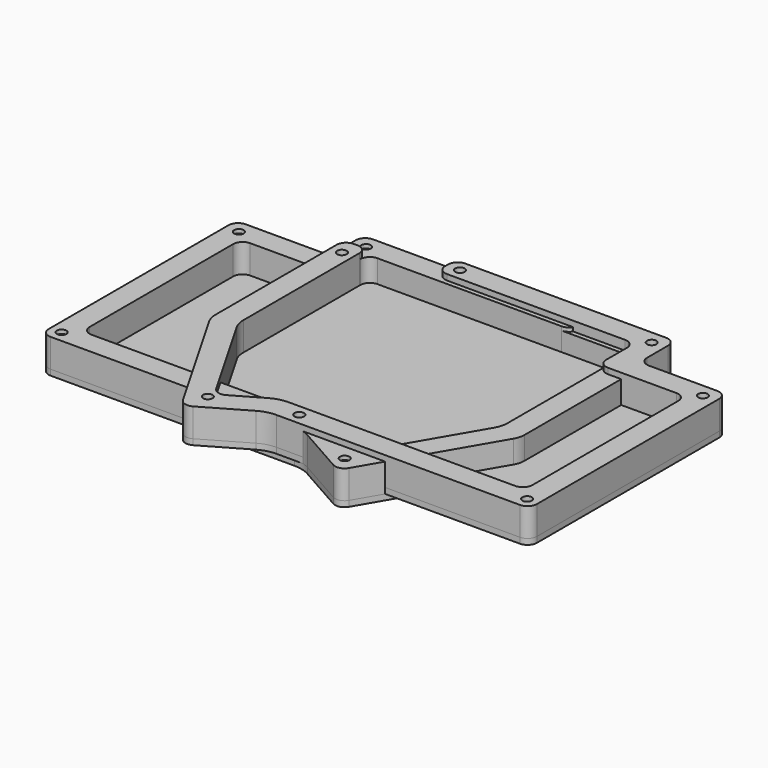
from build123d import *

# Parameters (mm, degrees)
EXTRUDE_DEPTH       = 13
SKETCH001_R         = 2.5
EXTRUDE001_DEPTH    = 3
SKETCH002_R         = 2.5
EXTRUDE002_DEPTH    = 15
MIRROREDSKETCH_R    = 2.5
EXTRUDE004_DEPTH    = 3
MIRROREDSKETCH001_R = 2.5
EXTRUDE005_DEPTH    = 15


with BuildPart() as extrude_body:
    # Sketch → Extrude (new body)
    with BuildSketch(Plane.XY):
        with BuildLine():
            Line((-130.49, 59.21), (-130.49, -59.21))
            ThreePointArc((-130.49, -59.21), (-129.025534, -62.745534), (-125.49, -64.21))
            Line((-125.49, -64.21), (2.885908, -64.21))
            ThreePointArc((11.622751, -66.512088), (7.403431, -64.795179), (2.885908, -64.21))
            Line((11.622751, -66.512088), (36.536967, -80.621035))
            ThreePointArc((36.536967, -80.621035), (40.306595, -81.096728), (43.3222, -78.785341))
            Line((43.3222, -78.785341), (79.515572, -16.598901))
            ThreePointArc((79.515572, -16.598901), (80.831144, -13.4462), (81.28, -10.059641))
            Line((81.28, -10.059641), (81.28, 81.44))
            ThreePointArc((81.28, 81.44), (79.815534, 84.975534), (76.28, 86.44))
            Line((76.28, 86.44), (-76.28, 86.44))
            ThreePointArc((-76.28, 86.44), (-79.815534, 84.975534), (-81.28, 81.44))
            Line((-81.28, 81.44), (-81.28, 69.21))
            ThreePointArc((-86.28, 64.21), (-82.744466, 65.674466), (-81.28, 69.21))
            Line((-86.28, 64.21), (-125.49, 64.21))
            ThreePointArc((-125.49, 64.21), (-129.025534, 62.745534), (-130.49, 59.21))
        make_face()
        with BuildLine():
            Line((69.28, 69.44), (69.28, -6.821793))
            ThreePointArc((67.515572, -13.361052), (68.831144, -10.208352), (69.28, -6.821793))
            Line((67.515572, -13.361052), (38.916228, -62.499646))
            ThreePointArc((32.130995, -64.335339), (35.900623, -64.811032), (38.916228, -62.499646))
            Line((14.784655, -54.512088), (32.130995, -64.335339))
            ThreePointArc((14.784655, -54.512088), (10.565334, -52.795179), (6.047812, -52.21))
            Line((-113.49, -52.21), (6.047812, -52.21))
            ThreePointArc((-118.49, -47.21), (-117.025534, -50.745534), (-113.49, -52.21))
            Line((-118.49, 47.21), (-118.49, -47.21))
            ThreePointArc((-113.49, 52.21), (-117.025534, 50.745534), (-118.49, 47.21))
            Line((-113.49, 52.21), (-74.28, 52.21))
            ThreePointArc((-74.28, 52.21), (-70.744466, 53.674466), (-69.28, 57.21))
            Line((-69.28, 69.44), (-69.28, 57.21))
            ThreePointArc((-64.28, 74.44), (-67.815534, 72.975534), (-69.28, 69.44))
            Line((-64.28, 74.44), (64.28, 74.44))
            ThreePointArc((69.28, 69.44), (67.815534, 72.975534), (64.28, 74.44))
        make_face(mode=Mode.SUBTRACT)
    extrude(amount=EXTRUDE_DEPTH)


with BuildPart() as extrude001:
    # Sketch001 → Extrude001 (new body)
    with BuildSketch(Plane.XY):
        with BuildLine():
            Line((-130.49, 59.21), (-130.49, -59.21))
            ThreePointArc((-130.49, -59.21), (-129.025534, -62.745534), (-125.49, -64.21))
            Line((-125.49, -64.21), (2.885908, -64.21))
            ThreePointArc((11.622751, -66.512088), (7.403431, -64.795179), (2.885908, -64.21))
            Line((11.622751, -66.512088), (36.536967, -80.621035))
            ThreePointArc((36.536967, -80.621035), (40.306595, -81.096728), (43.3222, -78.785341))
            Line((43.3222, -78.785341), (79.515572, -16.598901))
            ThreePointArc((79.515572, -16.598901), (80.831144, -13.4462), (81.28, -10.059641))
            Line((81.28, -10.059641), (81.28, 81.44))
            ThreePointArc((81.28, 81.44), (79.815534, 84.975534), (76.28, 86.44))
            Line((76.28, 86.44), (-76.28, 86.44))
            ThreePointArc((-76.28, 86.44), (-79.815534, 84.975534), (-81.28, 81.44))
            Line((-81.28, 81.44), (-81.28, 69.21))
            ThreePointArc((-86.28, 64.21), (-82.744466, 65.674466), (-81.28, 69.21))
            Line((-86.28, 64.21), (-125.49, 64.21))
            ThreePointArc((-125.49, 64.21), (-129.025534, 62.745534), (-130.49, 59.21))
        make_face()
        with Locations((-123.49, 57.21)):
            Circle(SKETCH001_R, mode=Mode.SUBTRACT)
        with Locations((-124.49, -58.21)):
            Circle(SKETCH001_R, mode=Mode.SUBTRACT)
        with Locations((-4.49, -58.21)):
            Circle(SKETCH001_R, mode=Mode.SUBTRACT)
        with Locations((36.585178, -73.175873)):
            Circle(SKETCH001_R, mode=Mode.SUBTRACT)
        with Locations((75.28, 62.44)):
            Circle(SKETCH001_R, mode=Mode.SUBTRACT)
        with Locations((30.711217, 80.44)):
            Circle(SKETCH001_R, mode=Mode.SUBTRACT)
        with Locations((-74.28, 79.44)):
            Circle(SKETCH001_R, mode=Mode.SUBTRACT)
    extrude(amount=-EXTRUDE001_DEPTH)


with BuildPart() as extrude002:
    # Sketch002 → Extrude002 (new body)
    with BuildSketch(Plane.XY):
        with BuildLine():
            Line((-118.49, 47.21), (-118.49, -47.21))
            ThreePointArc((-118.49, -47.21), (-117.025534, -50.745534), (-113.49, -52.21))
            Line((-113.49, -52.21), (6.047812, -52.21))
            ThreePointArc((14.784655, -54.512088), (10.565334, -52.795179), (6.047812, -52.21))
            Line((14.784655, -54.512088), (32.130995, -64.335339))
            ThreePointArc((32.130995, -64.335339), (35.900623, -64.811032), (38.916228, -62.499646))
            Line((67.515573, -13.361052), (38.916228, -62.499646))
            ThreePointArc((67.515573, -13.361052), (68.831378, -10.207486), (69.28, -6.82))
            Line((69.28, 66.44), (69.28, -6.82))
            ThreePointArc((74.28, 71.44), (70.744466, 69.975534), (69.28, 66.44))
            Line((74.28, 71.44), (76.28, 71.44))
            ThreePointArc((81.28, 66.44), (79.815534, 69.975534), (76.28, 71.44))
            Line((81.28, 66.44), (81.28, -10.65587))
            ThreePointArc((79.811267, -16.090847), (80.905274, -13.470547), (81.28, -10.65587))
            Line((43.3222, -78.785341), (79.811267, -16.090847))
            ThreePointArc((36.536967, -80.621035), (40.306595, -81.096728), (43.3222, -78.785341))
            Line((11.622751, -66.512088), (36.536967, -80.621035))
            ThreePointArc((11.622751, -66.512088), (7.403431, -64.795179), (2.885908, -64.21))
            Line((-125.49, -64.21), (2.885908, -64.21))
            ThreePointArc((-130.49, -59.21), (-129.025534, -62.745534), (-125.49, -64.21))
            Line((-130.49, 59.21), (-130.49, -59.21))
            ThreePointArc((-125.49, 64.21), (-129.025534, 62.745534), (-130.49, 59.21))
            Line((-86.28, 64.21), (-125.49, 64.21))
            ThreePointArc((-86.28, 64.21), (-82.744466, 65.674466), (-81.28, 69.21))
            Line((-81.28, 81.44), (-81.28, 69.21))
            ThreePointArc((-76.28, 86.44), (-79.815534, 84.975534), (-81.28, 81.44))
            Line((-76.28, 86.44), (32.71, 86.44))
            ThreePointArc((37.71, 81.44), (36.245534, 84.975534), (32.71, 86.44))
            Line((37.71, 79.44), (37.71, 81.44))
            ThreePointArc((32.71, 74.44), (36.245534, 75.904466), (37.71, 79.44))
            Line((-64.28, 74.44), (32.71, 74.44))
            ThreePointArc((-64.28, 74.44), (-67.815534, 72.975534), (-69.28, 69.44))
            Line((-69.28, 69.44), (-69.28, 57.21))
            ThreePointArc((-74.28, 52.21), (-70.744466, 53.674466), (-69.28, 57.21))
            Line((-113.49, 52.21), (-74.28, 52.21))
            ThreePointArc((-113.49, 52.21), (-117.025534, 50.745534), (-118.49, 47.21))
        make_face()
        with Locations((75.28, 62.44)):
            Circle(SKETCH002_R, mode=Mode.SUBTRACT)
        with Locations((36.585178, -73.175873)):
            Circle(SKETCH002_R, mode=Mode.SUBTRACT)
        with Locations((-124.49, -58.21)):
            Circle(SKETCH002_R, mode=Mode.SUBTRACT)
        with Locations((-4.49, -58.21)):
            Circle(SKETCH002_R, mode=Mode.SUBTRACT)
        with Locations((-123.49, 57.21)):
            Circle(SKETCH002_R, mode=Mode.SUBTRACT)
        with Locations((-74.28, 79.44)):
            Circle(SKETCH002_R, mode=Mode.SUBTRACT)
        with Locations((30.71, 80.44)):
            Circle(SKETCH002_R, mode=Mode.SUBTRACT)
    extrude(amount=EXTRUDE002_DEPTH)


with BuildPart() as extrude004:
    # MirroredSketch → Extrude004 (new body)
    with BuildSketch(Plane.XY):
        with BuildLine():
            Line((127.32, 60.005), (127.32, -60.005))
            ThreePointArc((122.32, -65.005), (125.855534, -63.540534), (127.32, -60.005))
            Line((122.32, -65.005), (-5.910023, -65.005))
            ThreePointArc((-5.910023, -65.005), (-10.498885, -65.609135), (-14.775023, -67.38037))
            Line((-14.775023, -67.38037), (-37.422033, -80.455627))
            ThreePointArc((-44.254779, -78.620958), (-41.21866, -80.95445), (-37.422033, -80.455627))
            Line((-44.254779, -78.620958), (-79.54514, -17.347965))
            ThreePointArc((-81.28, -10.859775), (-80.838798, -14.217838), (-79.54514, -17.347965))
            Line((-81.28, -10.859775), (-81.28, 83.815))
            ThreePointArc((-76.28, 88.815), (-79.815534, 87.350534), (-81.28, 83.815))
            Line((-76.28, 88.815), (76.28, 88.815))
            ThreePointArc((81.28, 83.815), (79.815534, 87.350534), (76.28, 88.815))
            Line((81.28, 83.815), (81.28, 70.005))
            ThreePointArc((81.28, 70.005), (82.744466, 66.469466), (86.28, 65.005))
            Line((86.28, 65.005), (122.32, 65.005))
            ThreePointArc((127.32, 60.005), (125.855534, 63.540534), (122.32, 65.005))
        make_face()
        with Locations((120.32, 58.005)):
            Circle(MIRROREDSKETCH_R, mode=Mode.SUBTRACT)
        with Locations((121.32, -59.005)):
            Circle(MIRROREDSKETCH_R, mode=Mode.SUBTRACT)
        with Locations((1.32, -59.005)):
            Circle(MIRROREDSKETCH_R, mode=Mode.SUBTRACT)
        with Locations((-38.194107, -69.844124)):
            Circle(MIRROREDSKETCH_R, mode=Mode.SUBTRACT)
        with Locations((-75.28, 64.815)):
            Circle(MIRROREDSKETCH_R, mode=Mode.SUBTRACT)
        with Locations((-27.53, 82.815)):
            Circle(MIRROREDSKETCH_R, mode=Mode.SUBTRACT)
        with Locations((74.28, 81.815)):
            Circle(MIRROREDSKETCH_R, mode=Mode.SUBTRACT)
    extrude(amount=EXTRUDE004_DEPTH)


with BuildPart() as extrude005:
    # MirroredSketch001 → Extrude005 (new body)
    with BuildSketch(Plane.XY.offset(3)):
        with BuildLine():
            Line((-69.28, 68.815), (-69.28, -7.651127))
            ThreePointArc((-69.28, -7.651127), (-68.838798, -11.00919), (-67.54514, -14.139318))
            Line((-67.54514, -14.139318), (-39.851571, -62.222358))
            ThreePointArc((-39.851571, -62.222358), (-36.815452, -64.55585), (-33.018825, -64.057027))
            Line((-17.990413, -55.38037), (-33.018825, -64.057027))
            ThreePointArc((-9.125413, -53.005), (-13.714275, -53.609135), (-17.990413, -55.38037))
            Line((110.32, -53.005), (-9.125413, -53.005))
            ThreePointArc((110.32, -53.005), (113.855534, -51.540534), (115.32, -48.005))
            Line((115.32, 48.005), (115.32, -48.005))
            ThreePointArc((115.32, 48.005), (113.855534, 51.540534), (110.32, 53.005))
            Line((110.32, 53.005), (74.28, 53.005))
            ThreePointArc((69.28, 58.005), (70.744466, 54.469466), (74.28, 53.005))
            Line((69.28, 71.815), (69.28, 58.005))
            ThreePointArc((69.28, 71.815), (67.815534, 75.350534), (64.28, 76.815))
            Line((64.28, 76.815), (-29.53, 76.815))
            ThreePointArc((-34.53, 81.815), (-33.065534, 78.279466), (-29.53, 76.815))
            Line((-34.53, 81.815), (-34.53, 83.815))
            ThreePointArc((-29.53, 88.815), (-33.065534, 87.350534), (-34.53, 83.815))
            Line((-29.53, 88.815), (76.28, 88.815))
            ThreePointArc((81.28, 83.815), (79.815534, 87.350534), (76.28, 88.815))
            Line((81.28, 83.815), (81.28, 70.005))
            ThreePointArc((81.28, 70.005), (82.744466, 66.469466), (86.28, 65.005))
            Line((86.28, 65.005), (122.32, 65.005))
            ThreePointArc((127.32, 60.005), (125.855534, 63.540534), (122.32, 65.005))
            Line((127.32, 60.005), (127.32, -60.005))
            ThreePointArc((122.32, -65.005), (125.855534, -63.540534), (127.32, -60.005))
            Line((122.32, -65.005), (-5.910023, -65.005))
            ThreePointArc((-5.910023, -65.005), (-10.498885, -65.609135), (-14.775023, -67.38037))
            Line((-14.775023, -67.38037), (-37.422033, -80.455627))
            ThreePointArc((-44.254779, -78.620958), (-41.21866, -80.95445), (-37.422033, -80.455627))
            Line((-44.254779, -78.620958), (-79.54514, -17.347965))
            ThreePointArc((-81.28, -10.859775), (-80.838798, -14.217838), (-79.54514, -17.347965))
            Line((-81.28, -10.859775), (-81.28, -7.651127))
            Line((-81.28, 68.815), (-81.28, -7.651127))
            ThreePointArc((-76.28, 73.815), (-79.815534, 72.350534), (-81.28, 68.815))
            Line((-76.28, 73.815), (-74.28, 73.815))
            ThreePointArc((-69.28, 68.815), (-70.744466, 72.350534), (-74.28, 73.815))
        make_face()
        with Locations((120.32, 58.005)):
            Circle(MIRROREDSKETCH001_R, mode=Mode.SUBTRACT)
        with Locations((121.32, -59.005)):
            Circle(MIRROREDSKETCH001_R, mode=Mode.SUBTRACT)
        with Locations((1.32, -59.005)):
            Circle(MIRROREDSKETCH001_R, mode=Mode.SUBTRACT)
        with Locations((-38.194107, -69.844124)):
            Circle(MIRROREDSKETCH001_R, mode=Mode.SUBTRACT)
        with Locations((-75.28, 64.815)):
            Circle(MIRROREDSKETCH001_R, mode=Mode.SUBTRACT)
        with Locations((-27.53, 82.815)):
            Circle(MIRROREDSKETCH001_R, mode=Mode.SUBTRACT)
        with Locations((74.28, 81.815)):
            Circle(MIRROREDSKETCH001_R, mode=Mode.SUBTRACT)
    extrude(amount=EXTRUDE005_DEPTH)


solid = Compound([extrude_body.part, extrude001.part, extrude002.part, extrude004.part, extrude005.part])
